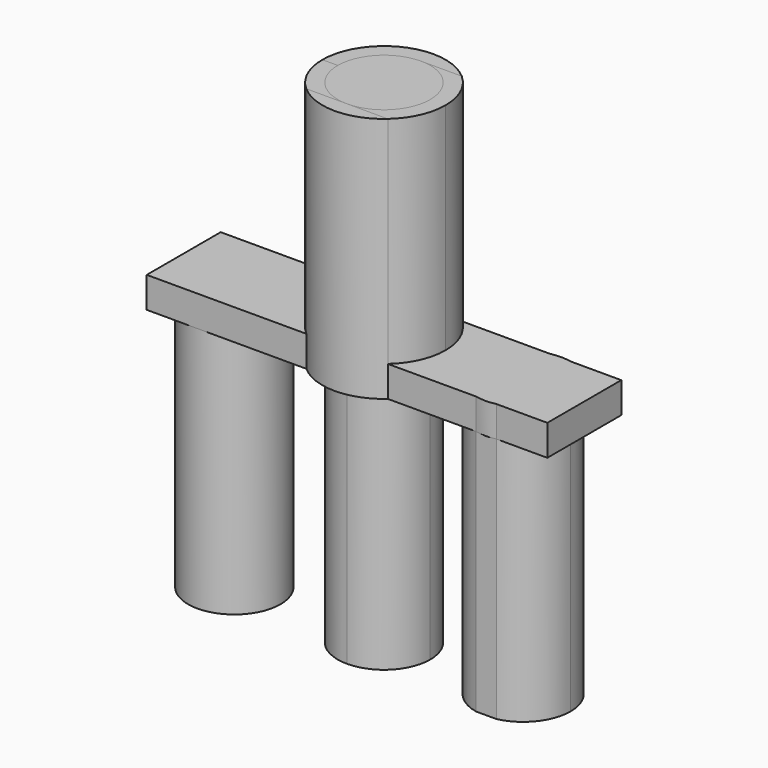
from build123d import *

# Parameters (mm, degrees)
F1_DEPTH = 101.6
F2_DEPTH = 12.7
F3_DEPTH = 101.6
F4_DEPTH = 101.6
F5_DEPTH = 101.6
F6_DEPTH = 101.6
F7_DEPTH = 101.6


with BuildPart() as f1:
    # F0 (on Top) → F1 (new body)
    with BuildSketch(Plane.XY):
        with BuildLine():
            Line((1.179e-07, 19.05), (-16.8005208253, 19.05))
            ThreePointArc((-16.8005208253, 19.05), (-23.1505208253, 10.4505208253), (-25.4, 0))
            Line((-25.4, 0), (-19.05, 0))
            ThreePointArc((-19.05, 0), (-13.4703841399, 13.4703842233), (1.179e-07, 19.05))
        make_face()
        with BuildLine():
            ThreePointArc((16.8005208253, 19.05), (0, 25.4), (-16.8005208253, 19.05))
            Line((-16.8005208253, 19.05), (1.179e-07, 19.05))
            Line((1.179e-07, 19.05), (16.8005208253, 19.05))
        make_face()
    extrude(amount=F1_DEPTH)


with BuildPart() as f1b:
    # F0 (on Top) → F1, piece 2 (new body)
    with BuildSketch(Plane.XY):
        with BuildLine():
            Line((3.1e-09, -19.05), (-16.8005208253, -19.05))
            ThreePointArc((-16.8005208253, -19.05), (0, -25.4), (16.8005208253, -19.05))
            Line((16.8005208253, -19.05), (3.1e-09, -19.05))
        make_face()
    extrude(amount=F1_DEPTH)

    # F0 (on Top) → F2 (join)
    with BuildSketch(Plane.XY):
        with BuildLine():
            Line((-61.6974197328, 19.05), (-82.55, 19.05))
            Line((-82.55, 19.05), (-82.55, -19.05))
            Line((-82.55, -19.05), (-61.6974197328, -19.05))
            ThreePointArc((-61.6974197328, -19.05), (-80.7474197328, 0), (-61.6974197328, 19.05))
        make_face()
        with BuildLine():
            Line((-16.8005208253, 19.05), (-61.6974197328, 19.05))
            ThreePointArc((-61.6974197328, 19.05), (-48.2270355512, 13.4703841816), (-42.6474197328, 0))
            Line((-42.6474197328, 0), (-25.4, 0))
            ThreePointArc((-25.4, 0), (-23.1505208253, 10.4505208253), (-16.8005208253, 19.05))
        make_face()
        with BuildLine():
            ThreePointArc((-42.6474197328, 0), (-48.2270355512, 13.4703841816), (-61.6974197328, 19.05))
            ThreePointArc((-61.6974197328, 19.05), (-80.7474197328, 0), (-61.6974197328, -19.05))
            ThreePointArc((-61.6974197328, -19.05), (-48.2270355512, -13.4703841816), (-42.6474197328, 0))
        make_face()
        with BuildLine():
            ThreePointArc((16.8005208253, 19.05), (0, 25.4), (-16.8005208253, 19.05))
            Line((-16.8005208253, 19.05), (1.179e-07, 19.05))
            Line((1.179e-07, 19.05), (16.8005208253, 19.05))
        make_face()
        with BuildLine():
            Line((1.179e-07, 19.05), (-16.8005208253, 19.05))
            ThreePointArc((-16.8005208253, 19.05), (-23.1505208253, 10.4505208253), (-25.4, 0))
            Line((-25.4, 0), (-19.05, 0))
            ThreePointArc((-19.05, 0), (-13.4703841399, 13.4703842233), (1.179e-07, 19.05))
        make_face()
        with BuildLine():
            Line((-25.4, 0), (-42.6474197328, 0))
            ThreePointArc((-42.6474197328, 0), (-48.2270355512, -13.4703841816), (-61.6974197328, -19.05))
            Line((-61.6974197328, -19.05), (-16.8005208253, -19.05))
            ThreePointArc((-16.8005208253, -19.05), (-23.1505208253, -10.4505208253), (-25.4, 0))
        make_face()
        with BuildLine():
            Line((16.8005208253, 19.05), (1.179e-07, 19.05))
            ThreePointArc((1.179e-07, 19.05), (13.4703842233, 13.4703841399), (19.05, 0))
            ThreePointArc((19.05, 0), (13.4703841827, -13.4703841805), (3.1e-09, -19.05))
            Line((3.1e-09, -19.05), (16.8005208253, -19.05))
            ThreePointArc((16.8005208253, -19.05), (23.1505208253, -10.4505208253), (25.4, 0))
            ThreePointArc((25.4, 0), (23.1505208253, 10.4505208253), (16.8005208253, 19.05))
        make_face()
        with BuildLine():
            Line((53.0774212664, 19.05), (16.8005208253, 19.05))
            ThreePointArc((16.8005208253, 19.05), (23.1505208253, 10.4505208253), (25.4, 0))
            Line((25.4, 0), (37.8385224377, 0))
            ThreePointArc((37.8385224377, 0), (42.1169707822, 12.1976077317), (53.0774212664, 19.05))
        make_face()
        with BuildLine():
            Line((-19.05, 0), (-25.4, 0))
            ThreePointArc((-25.4, 0), (-23.1505208253, -10.4505208253), (-16.8005208253, -19.05))
            Line((-16.8005208253, -19.05), (3.1e-09, -19.05))
            ThreePointArc((3.1e-09, -19.05), (-13.4703841805, -13.4703841827), (-19.05, 0))
        make_face()
        with BuildLine():
            Line((3.1e-09, -19.05), (-16.8005208253, -19.05))
            ThreePointArc((-16.8005208253, -19.05), (0, -25.4), (16.8005208253, -19.05))
            Line((16.8005208253, -19.05), (3.1e-09, -19.05))
        make_face()
        with BuildLine():
            ThreePointArc((61.6527431423, 19.05), (57.3650822043, 19.5265597666), (53.0774212664, 19.05))
            Line((53.0774212664, 19.05), (61.6527431423, 19.05))
        make_face()
        with BuildLine():
            Line((61.6527431423, 19.05), (53.0774212664, 19.05))
            ThreePointArc((53.0774212664, 19.05), (42.1169707822, 12.1976077317), (37.8385224377, 0))
            ThreePointArc((37.8385224377, 0), (42.1169707822, -12.1976077317), (53.0774212664, -19.05))
            Line((53.0774212664, -19.05), (61.6527431423, -19.05))
            ThreePointArc((61.6527431423, -19.05), (72.6131936265, -12.1976077317), (76.891641971, 0))
            ThreePointArc((76.891641971, 0), (72.6131936265, 12.1976077317), (61.6527431423, 19.05))
        make_face()
        with BuildLine():
            Line((37.8385224377, 0), (25.4, 0))
            ThreePointArc((25.4, 0), (23.1505208253, -10.4505208253), (16.8005208253, -19.05))
            Line((16.8005208253, -19.05), (53.0774212664, -19.05))
            ThreePointArc((53.0774212664, -19.05), (42.1169707822, -12.1976077317), (37.8385224377, 0))
        make_face()
        with BuildLine():
            Line((82.55, 19.05), (61.6527431423, 19.05))
            ThreePointArc((61.6527431423, 19.05), (72.6131936265, 12.1976077317), (76.891641971, 0))
            ThreePointArc((76.891641971, 0), (72.6131936265, -12.1976077317), (61.6527431423, -19.05))
            Line((61.6527431423, -19.05), (82.55, -19.05))
            Line((82.55, -19.05), (82.55, 19.05))
        make_face()
        with BuildLine():
            Line((61.6527431423, -19.05), (53.0774212664, -19.05))
            ThreePointArc((53.0774212664, -19.05), (57.3650822043, -19.5265597666), (61.6527431423, -19.05))
        make_face()
    extrude(amount=F2_DEPTH)

    # F0 (on Top) → F3 (join)
    with BuildSketch(Plane.XY):
        with BuildLine():
            ThreePointArc((-42.6474197328, 0), (-48.2270355512, 13.4703841816), (-61.6974197328, 19.05))
            ThreePointArc((-61.6974197328, 19.05), (-80.7474197328, 0), (-61.6974197328, -19.05))
            ThreePointArc((-61.6974197328, -19.05), (-48.2270355512, -13.4703841816), (-42.6474197328, 0))
        make_face()
    extrude(amount=-F3_DEPTH)

    # F0 (on Top) → F5 (join)
    with BuildSketch(Plane.XY):
        with BuildLine():
            Line((61.6527431423, 19.05), (53.0774212664, 19.05))
            ThreePointArc((53.0774212664, 19.05), (42.1169707822, 12.1976077317), (37.8385224377, 0))
            ThreePointArc((37.8385224377, 0), (42.1169707822, -12.1976077317), (53.0774212664, -19.05))
            Line((53.0774212664, -19.05), (61.6527431423, -19.05))
            ThreePointArc((61.6527431423, -19.05), (72.6131936265, -12.1976077317), (76.891641971, 0))
            ThreePointArc((76.891641971, 0), (72.6131936265, 12.1976077317), (61.6527431423, 19.05))
        make_face()
    extrude(amount=-F5_DEPTH)


with BuildPart() as f4:
    # F0 (on Top) → F4 (new body, symmetric)
    with BuildSketch(Plane.XY):
        with BuildLine():
            ThreePointArc((19.05, 0), (13.4703842233, 13.4703841399), (1.179e-07, 19.05))
            ThreePointArc((1.179e-07, 19.05), (-13.4703841399, 13.4703842233), (-19.05, 0))
            ThreePointArc((-19.05, 0), (-13.4703841805, -13.4703841827), (3.1e-09, -19.05))
            ThreePointArc((3.1e-09, -19.05), (13.4703841827, -13.4703841805), (19.05, 0))
        make_face()
    extrude(amount=F4_DEPTH, both=True)


with BuildPart() as f6:
    # F0 (on Top) → F6 (new body)
    with BuildSketch(Plane.XY):
        with BuildLine():
            Line((-19.05, 0), (-25.4, 0))
            ThreePointArc((-25.4, 0), (-23.1505208253, -10.4505208253), (-16.8005208253, -19.05))
            Line((-16.8005208253, -19.05), (3.1e-09, -19.05))
            ThreePointArc((3.1e-09, -19.05), (-13.4703841805, -13.4703841827), (-19.05, 0))
        make_face()
    extrude(amount=F6_DEPTH)


with BuildPart() as f7:
    # F0 (on Top) → F7 (new body)
    with BuildSketch(Plane.XY):
        with BuildLine():
            Line((16.8005208253, 19.05), (1.179e-07, 19.05))
            ThreePointArc((1.179e-07, 19.05), (13.4703842233, 13.4703841399), (19.05, 0))
            ThreePointArc((19.05, 0), (13.4703841827, -13.4703841805), (3.1e-09, -19.05))
            Line((3.1e-09, -19.05), (16.8005208253, -19.05))
            ThreePointArc((16.8005208253, -19.05), (23.1505208253, -10.4505208253), (25.4, 0))
            ThreePointArc((25.4, 0), (23.1505208253, 10.4505208253), (16.8005208253, 19.05))
        make_face()
    extrude(amount=F7_DEPTH)


solid = Compound([f1.part, f1b.part, f4.part, f6.part, f7.part])
